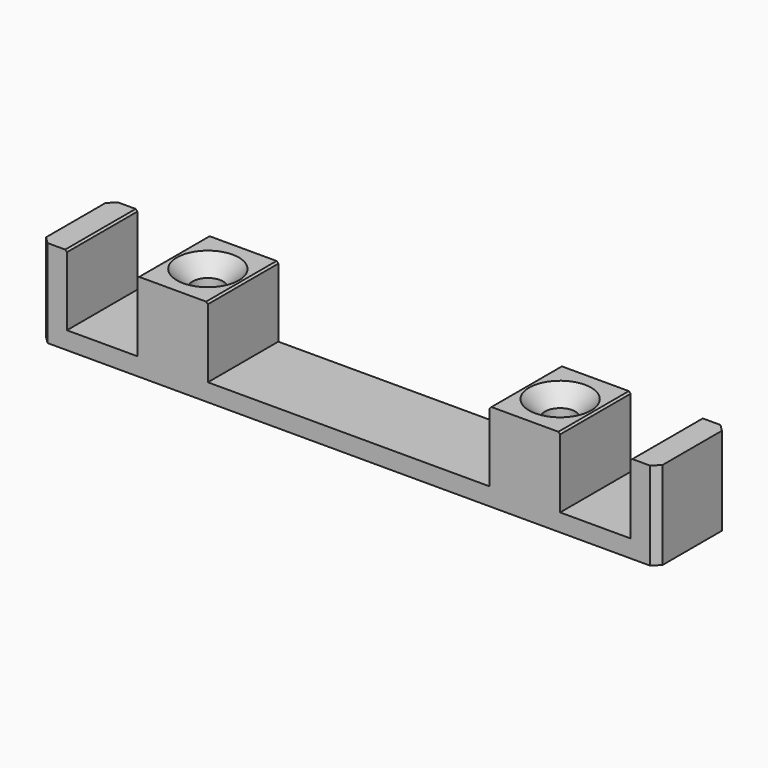
from build123d import *

# Parameters (mm, degrees)
SKETCH_W        = 88.9
SKETCH_H        = 12.7
SKETCH_R        = 2.182812
PAD_DEPTH       = 12.7
CHAMFER_SIZE    = 1
CHAMFER001_SIZE = 2.286
SKETCH001_W     = 10.16
SKETCH001_H     = 12.7
SKETCH001_W_2   = 40.64
POCKET_DEPTH    = 10.16
CHAMFER002_SIZE = 0.254


with BuildPart() as part:
    # Sketch → Pad (new body)
    with BuildSketch(Plane.XY):
        Rectangle(SKETCH_W, SKETCH_H)
        with Locations((-25.4, 0)):
            Circle(SKETCH_R, mode=Mode.SUBTRACT)
        with Locations((25.4, 0)):
            Circle(SKETCH_R, mode=Mode.SUBTRACT)
    extrude(amount=PAD_DEPTH)

    # Chamfer
    chamfer_edges = [part.edges().sort_by_distance(p)[0] for p in [
        (44.45, 6.35, 6.35),
        (44.45, -6.35, 6.35),
        (-44.45, -6.35, 6.35),
        (-44.45, 6.35, 6.35),
    ]]
    chamfer(chamfer_edges, length=CHAMFER_SIZE)

    # Chamfer001
    chamfer001_edges = [part.edges().sort_by_distance(p)[0] for p in [
        (-27.582812, 0, 12.7),
        (23.217187, 0, 12.7),
    ]]
    chamfer(chamfer001_edges, length=CHAMFER001_SIZE)

    # Sketch001 → Pocket (cut)
    with BuildSketch(Plane.XY.offset(12.7)):
        with Locations((-35.56, 0)):
            Rectangle(SKETCH001_W, SKETCH001_H)
        with Locations((35.56, 0)):
            Rectangle(SKETCH001_W, SKETCH001_H)
        Rectangle(SKETCH001_W_2, SKETCH001_H)
    extrude(amount=-POCKET_DEPTH, mode=Mode.SUBTRACT)

    # Chamfer002
    chamfer002_edges = [part.edges().sort_by_distance(p)[0] for p in [
        (-40.64, 0, 12.7),
        (-30.48, 0, 12.7),
        (-20.32, 0, 12.7),
        (20.32, 0, 12.7),
        (30.48, 0, 12.7),
        (40.64, 0, 12.7),
    ]]
    chamfer(chamfer002_edges, length=CHAMFER002_SIZE)


solid = part.part
